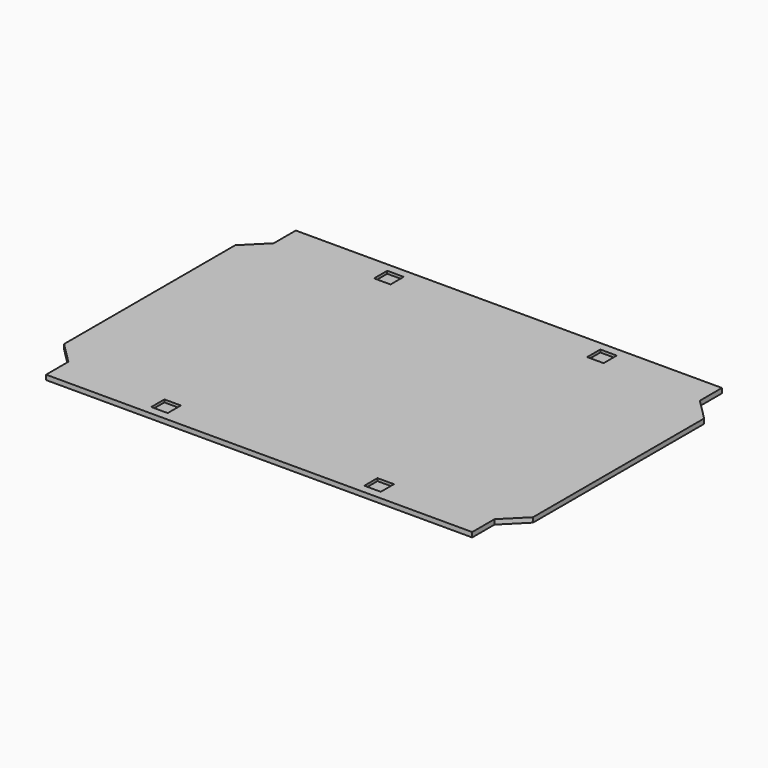
from build123d import *

# Parameters (mm, degrees)
F0_W     = 19.25
F0_H     = 19.25
F1_DEPTH = 5.6
F2_W     = 19.25
F2_H     = 19.25
F3_DEPTH = 2.5


with BuildPart() as f1:
    # F0 (on Top) → F1 (new body)
    with BuildSketch(Plane.XY):
        Polygon((249, 182.397936), (-249, 182.397936), (-249, 150.147936), (-274, 125.147936), (-274, -124.852064), (-249, -149.852064), (-249, -182.397936), (249, -182.397936), (249, -149.852064), (274, -124.852064), (274, 125.147936), (249, 150.147936), align=None)
        with Locations((-124.5, -162.772936)):
            Rectangle(F0_W, F0_H, mode=Mode.SUBTRACT)
        with Locations((124.5, -162.772936)):
            Rectangle(F0_W, F0_H, mode=Mode.SUBTRACT)
        with Locations((-124.5, 162.772936)):
            Rectangle(F0_W, F0_H, mode=Mode.SUBTRACT)
        with Locations((124.5, 162.772936)):
            Rectangle(F0_W, F0_H, mode=Mode.SUBTRACT)
    extrude(amount=F1_DEPTH)

    # F2 (on face) → F3 (join)
    with BuildSketch(Plane(origin=(0, 0, 0), x_dir=(1, 0, 0), z_dir=(0, 0, -1))):
        with Locations((-124.5, 162.772936)):
            Rectangle(F2_W, F2_H)
        with Locations((124.5, 162.772936)):
            Rectangle(F2_W, F2_H)
        with Locations((124.5, -162.772936)):
            Rectangle(F2_W, F2_H)
        with Locations((-124.5, -162.772936)):
            Rectangle(F2_W, F2_H)
    extrude(amount=-F3_DEPTH)


solid = f1.part
